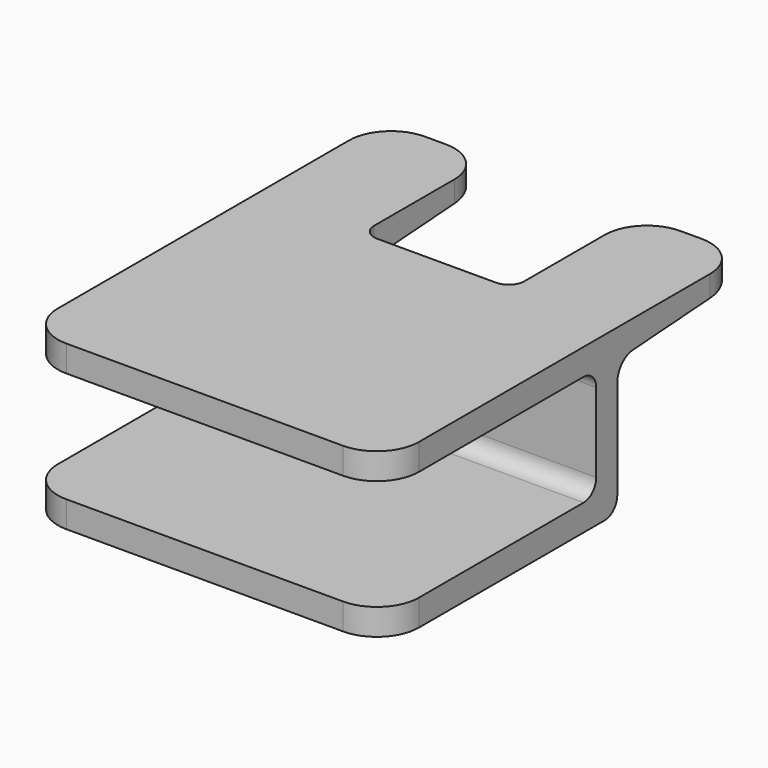
from build123d import *

# Parameters (mm, degrees)
F1_DEPTH = 5.5
F3_DEPTH = 68.501
F4_W     = 68.5
F4_H     = 5
F5_DEPTH = 21
F6_R     = 4
F8_DEPTH = 5
F9_R     = 3


with BuildPart() as f1:
    # F0 (on Top) → F1 (new body)
    with BuildSketch(Plane.XY):
        with BuildLine():
            ThreePointArc((-26.25, 30), (-31.9068542495, 27.6568542495), (-34.25, 22))
            Line((-34.25, 22), (-34.25, -47))
            ThreePointArc((-34.25, -47), (-31.9068542495, -52.6568542495), (-26.25, -55))
            Line((-26.25, -55), (26.25, -55))
            ThreePointArc((26.25, -55), (31.9068542495, -52.6568542495), (34.25, -47))
            Line((34.25, -47), (34.25, 22))
            ThreePointArc((34.25, 22), (31.9068542495, 27.6568542495), (26.25, 30))
            Line((26.25, 30), (22.25, 30))
            ThreePointArc((22.25, 30), (16.5931457505, 27.6568542495), (14.25, 22))
            Line((14.25, 22), (14.25, 3))
            ThreePointArc((14.25, 3), (13.3713203436, 0.8786796564), (11.25, 0))
            Line((11.25, 0), (-11.25, 0))
            ThreePointArc((-11.25, 0), (-13.3713203436, 0.8786796564), (-14.25, 3))
            Line((-14.25, 3), (-14.25, 22))
            ThreePointArc((-14.25, 22), (-16.5931457505, 27.6568542495), (-22.25, 30))
            Line((-22.25, 30), (-26.25, 30))
        make_face()
    extrude(amount=F1_DEPTH)

    # F2 (on face) → F3 (cut, through all)
    with BuildSketch(Plane(origin=(-34.25, 0, 0), x_dir=(0, -1, 0), z_dir=(-1, 0, 0))):
        Polygon((-30, -3.0038015655), (55, -3.0038015655), (55, 0.5), (0, 0.5), (0, 0), (-30, 2), align=None)
    extrude(amount=-F3_DEPTH, mode=Mode.SUBTRACT)

    # F4 (on face) → F5 (join)
    with BuildSketch(Plane(origin=(0, 0, 0.5), x_dir=(1, 0, 0), z_dir=(0, 0, -1))):
        with Locations((0, 2.5)):
            Rectangle(F4_W, F4_H)
    extrude(amount=F5_DEPTH)

    # F6
    f6_edges = [f1.edges().sort_by_distance(p)[0] for p in [
        (-22.75, 0, 0),
        (22.75, 0, 0),
    ]]
    fillet(f6_edges, radius=F6_R)

    # F7 (on face) → F8 (join)
    with BuildSketch(Plane(origin=(0, 0, -20.5), x_dir=(1, 0, 0), z_dir=(0, 0, -1))):
        with BuildLine():
            Line((-34.25, 0), (34.25, 0))
            Line((34.25, 0), (34.25, 47))
            ThreePointArc((34.25, 47), (31.9068542495, 52.6568542495), (26.25, 55))
            Line((26.25, 55), (-26.25, 55))
            ThreePointArc((-26.25, 55), (-31.9068542495, 52.6568542495), (-34.25, 47))
            Line((-34.25, 47), (-34.25, 0))
        make_face()
    extrude(amount=F8_DEPTH)

    # F9
    f9_edges = [f1.edges().sort_by_distance(p)[0] for p in [
        (0, 0, -25.5),
        (0, -5, -20.5),
        (0, -5, 0.5),
    ]]
    fillet(f9_edges, radius=F9_R)


solid = f1.part
